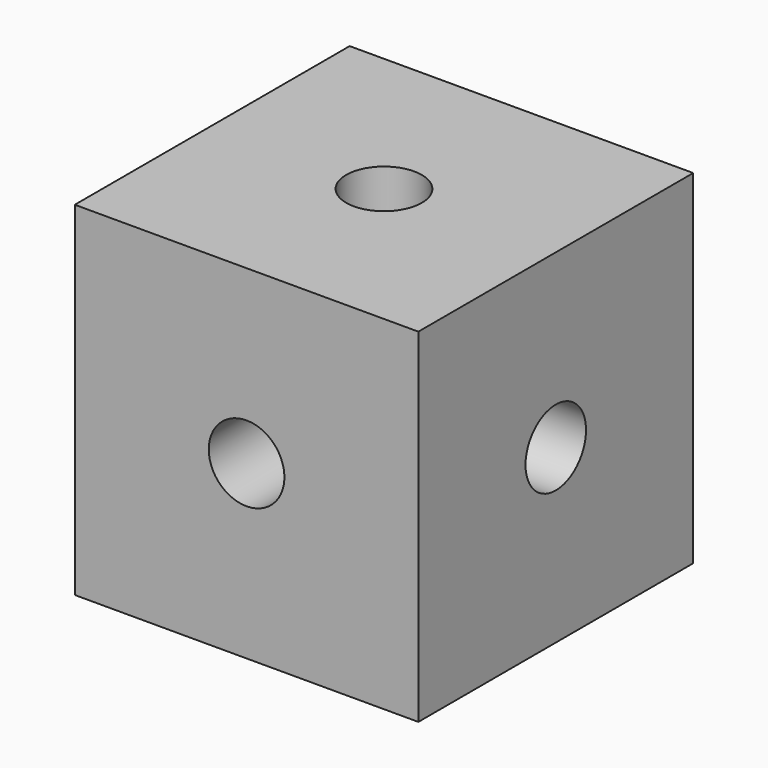
from build123d import *

# Parameters (mm, degrees)
F0_W     = 15.113
F0_H     = 15.113
F1_DEPTH = 7.5565
F3_D     = 3.3274
F3_DEPTH = 12.7
F3_TIP   = 0.9996518119
F5_D     = 3.3274
F5_DEPTH = 12.7
F5_TIP   = 0.9996518119
F7_D     = 3.3274
F7_DEPTH = 12.7
F7_TIP   = 0.9996518119


with BuildPart() as f1:
    # F0 (on Front) → F1 (new body, symmetric)
    with BuildSketch(Plane.XZ):
        Rectangle(F0_W, F0_H)
    extrude(amount=F1_DEPTH, both=True)

    # F3
    with Locations(Plane.XZ.offset(7.5565)):
        with Locations((0, 0)):
            Hole(F3_D / 2, depth=F3_DEPTH)
            with Locations((0, 0, -(F3_DEPTH + F3_TIP / 2))):  # 118° drill point
                Cone(0, F3_D / 2, F3_TIP, mode=Mode.SUBTRACT)

    # F5
    with Locations(Plane.XY.offset(7.5565)):
        with Locations((0, 0)):
            Hole(F5_D / 2, depth=F5_DEPTH)
            with Locations((0, 0, -(F5_DEPTH + F5_TIP / 2))):  # 118° drill point
                Cone(0, F5_D / 2, F5_TIP, mode=Mode.SUBTRACT)

    # F7
    with Locations(Plane.YZ.offset(7.5565)):
        with Locations((0, 0)):
            Hole(F7_D / 2, depth=F7_DEPTH)
            with Locations((0, 0, -(F7_DEPTH + F7_TIP / 2))):  # 118° drill point
                Cone(0, F7_D / 2, F7_TIP, mode=Mode.SUBTRACT)


solid = f1.part
